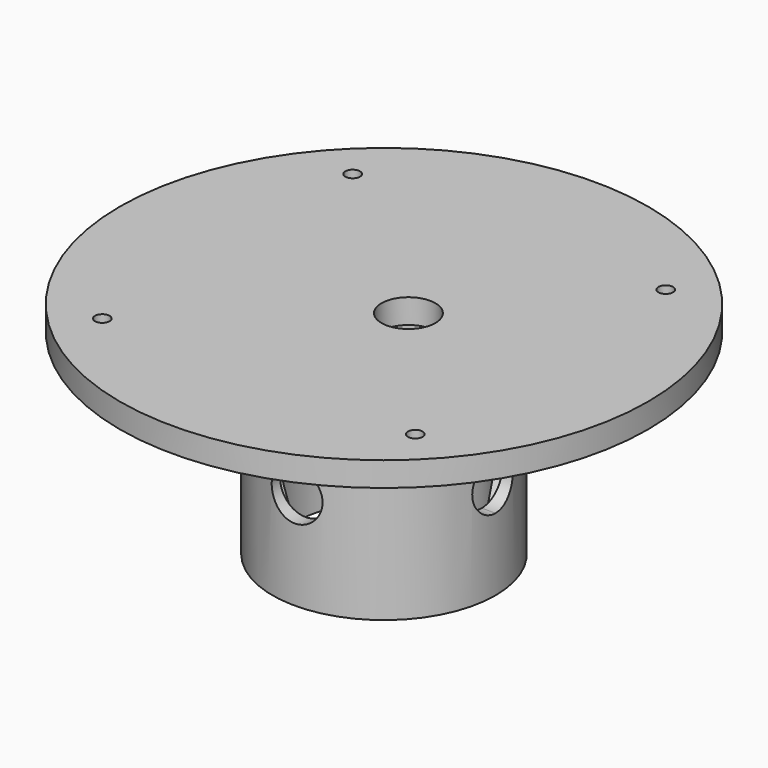
from build123d import *

# Parameters (mm, degrees)
F0_R           = 11.4
F1_DEPTH       = 0.01
F2_R           = 11.4
F2_R_2         = 9
F3_DEPTH       = 20
F5_DEPTH       = 10
F5_DEPTH_BACK  = 10
F7_DEPTH       = 10
F7_DEPTH_BACK  = 10
F9_DEPTH       = 11.401
F9_DEPTH_BACK  = 11.401
F10_R          = 2.6
F11_DEPTH      = 11.4010001
F11_DEPTH_BACK = 11.4010001
F12_R          = 9
F13_DEPTH      = 10
F14_R          = 27
F15_DEPTH      = 2.5
F16_R          = 2.75
F17_DEPTH      = 25
F18_R          = 0.75
F19_DEPTH      = 25


with BuildPart() as f1:
    # F0 (on Top) → F1 (new body)
    with BuildSketch(Plane.XY):
        Circle(F0_R)
    extrude(amount=F1_DEPTH)

    # F2 (on face) → F3 (join)
    with BuildSketch(Plane.XY.offset(0.01)):
        Circle(F2_R)
        Circle(F2_R_2, mode=Mode.SUBTRACT)
        Circle(F2_R)
        Circle(F2_R_2, mode=Mode.SUBTRACT)
    extrude(amount=F3_DEPTH)

    # F4 (on Right) → F5 (cut, two sides)
    with BuildSketch(Plane.YZ) as f5_sk:
        Polygon((-2.3094010768, 6), (2.3094010768, 6), (4.6188021535, 10), (2.3094010768, 14), (-2.3094010768, 14), (-4.6188021535, 10), align=None)
    extrude(amount=F5_DEPTH, mode=Mode.SUBTRACT)
    extrude(f5_sk.sketch, amount=-F5_DEPTH_BACK, mode=Mode.SUBTRACT)

    # F6 (on Front) → F7 (cut, two sides)
    with BuildSketch(Plane.XZ) as f7_sk:
        Polygon((-2.3094010768, 6), (2.3094010768, 6), (4.6188021535, 10), (2.3094010768, 14), (-2.3094010768, 14), (-4.6188021535, 10), align=None)
    extrude(amount=F7_DEPTH, mode=Mode.SUBTRACT)
    extrude(f7_sk.sketch, amount=-F7_DEPTH_BACK, mode=Mode.SUBTRACT)

    # F8 (on Right) → F9 (cut, two sides)
    with BuildSketch(Plane.YZ) as f9_sk:
        with BuildLine():
            ThreePointArc((0, 12.6), (-2.6, 10), (0, 7.4))
            Line((0, 7.4), (0, 12.6))
        make_face()
        with BuildLine():
            Line((0, 12.6), (0, 7.4))
            ThreePointArc((0, 7.4), (1.8384776311, 8.1615223689), (2.6, 10))
            ThreePointArc((2.6, 10), (1.8384776311, 11.8384776311), (0, 12.6))
        make_face()
    extrude(amount=-F9_DEPTH, mode=Mode.SUBTRACT)
    extrude(f9_sk.sketch, amount=F9_DEPTH_BACK, mode=Mode.SUBTRACT)

    # F10 (on Front) → F11 (cut, two sides)
    with BuildSketch(Plane.XZ) as f11_sk:
        with Locations((0, 10)):
            Circle(F10_R)
    extrude(amount=F11_DEPTH, mode=Mode.SUBTRACT)
    extrude(f11_sk.sketch, amount=-F11_DEPTH_BACK, mode=Mode.SUBTRACT)

    # F12 (on face) → F13 (cut)
    with BuildSketch(Plane.XY.offset(0.01)):
        Circle(F12_R)
    extrude(amount=-F13_DEPTH, mode=Mode.SUBTRACT)

    # F14 (on face) → F15 (join)
    with BuildSketch(Plane.XY.offset(20.01)):
        Circle(F14_R)
    extrude(amount=F15_DEPTH)

    # F16 (on face) → F17 (cut)
    with BuildSketch(Plane.XY.offset(22.51)):
        with Locations((2.5, 0)):
            Circle(F16_R)
    extrude(amount=-F17_DEPTH, mode=Mode.SUBTRACT)

    # F18 (on face) → F19 (cut)
    with BuildSketch(Plane.XY.offset(22.51)):
        with Locations((-16, -16)):
            Circle(F18_R)
        with Locations((16, -16)):
            Circle(F18_R)
        with Locations((-16, 16)):
            Circle(F18_R)
        with Locations((16, 16)):
            Circle(F18_R)
    extrude(amount=-F19_DEPTH, mode=Mode.SUBTRACT)


solid = f1.part
